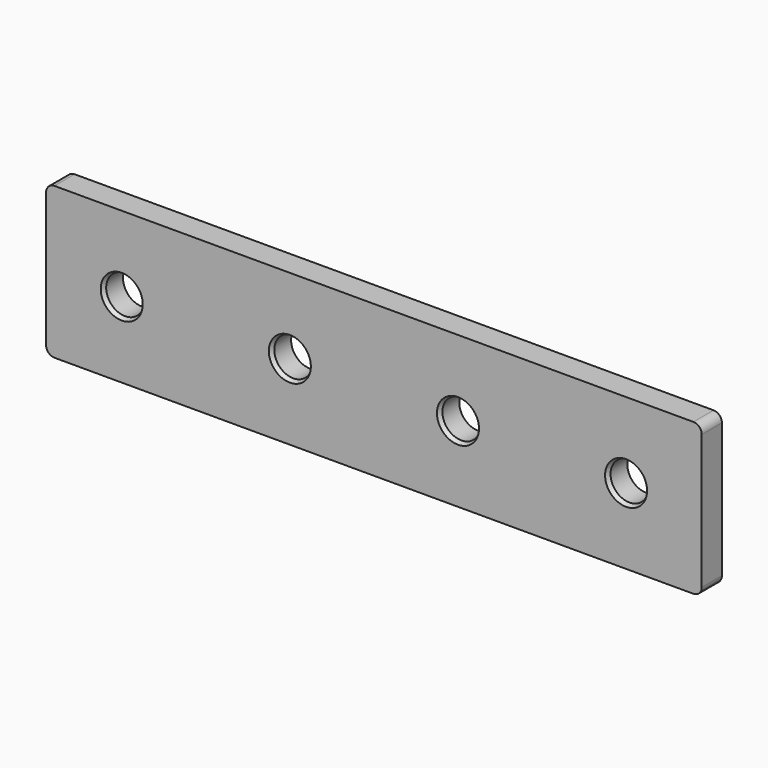
from build123d import *

# Parameters (mm, degrees)
F0_R     = 4.5
F1_DEPTH = 6
F2_SIZE2 = 0.5
F2_SIZE  = 1


with BuildPart() as f1:
    # F0 (on Front) → F1 (new body)
    with BuildSketch(Plane.XZ):
        with BuildLine():
            Line((136, 18), (-16, 18))
            ThreePointArc((-16, 18), (-17.414214, 17.414214), (-18, 16))
            Line((-18, 16), (-18, -16))
            ThreePointArc((-18, -16), (-17.414214, -17.414214), (-16, -18))
            Line((-16, -18), (136, -18))
            ThreePointArc((136, -18), (137.414214, -17.414214), (138, -16))
            Line((138, -16), (138, 16))
            ThreePointArc((138, 16), (137.414214, 17.414214), (136, 18))
        make_face()
        Circle(F0_R, mode=Mode.SUBTRACT)
        with Locations((40, 0)):
            Circle(F0_R, mode=Mode.SUBTRACT)
        with Locations((80, 0)):
            Circle(F0_R, mode=Mode.SUBTRACT)
        with Locations((120, 0)):
            Circle(F0_R, mode=Mode.SUBTRACT)
    extrude(amount=F1_DEPTH)

    # F2
    f2_edges = [f1.edges().sort_by_distance(p)[0] for p in [
        (-4.5, -6, 0),
        (35.5, -6, 0),
        (75.5, -6, 0),
        (115.5, -6, 0),
    ]]
    chamfer(f2_edges, length=F2_SIZE, length2=F2_SIZE2)


solid = f1.part
